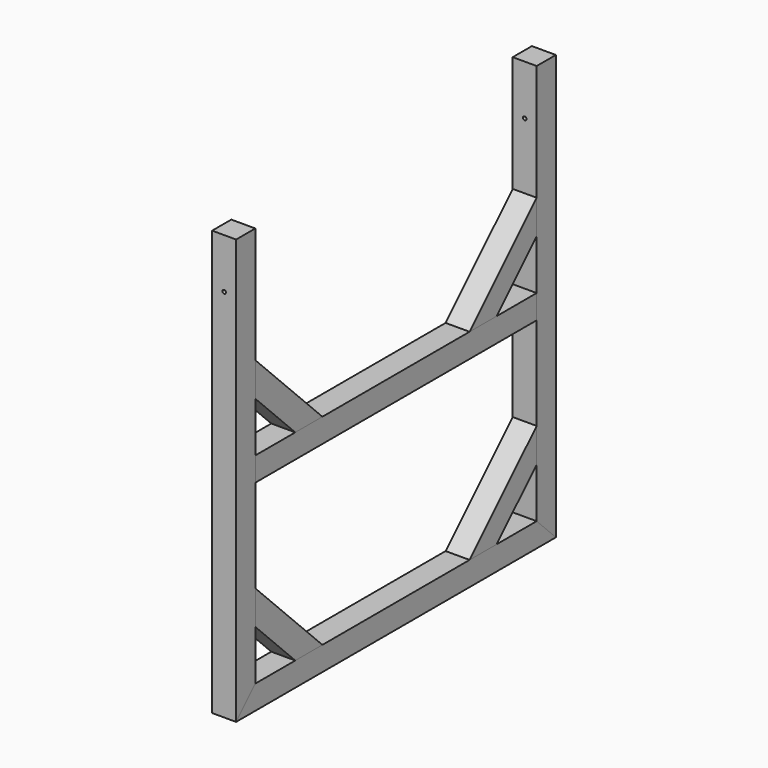
from build123d import *

# Parameters (mm, degrees)
F1_DEPTH  = 48
F2_DEPTH  = 48
F3_DEPTH  = 48
F4_DEPTH  = 48
F5_DEPTH  = 48
F6_DEPTH  = 48
F7_DEPTH  = 48
F8_DEPTH  = 48
F10_DEPTH = 800.001


with BuildPart() as f1:
    # F0 (on Right) → F1 (new body)
    with BuildSketch(Plane.YZ):
        Polygon((-166.943222, -192.34871), (-214.943222, -240.34871), (585.056778, -240.34871), (537.056778, -192.34871), (437.056778, -192.34871), (369.174527, -192.34871), (0.939029, -192.34871), (-66.943222, -192.34871), align=None)
    extrude(amount=F1_DEPTH)


with BuildPart() as f2:
    # F0 (on Right) → F2 (new body)
    with BuildSketch(Plane.YZ):
        Polygon((-166.943222, 609.65129), (-214.943222, 609.65129), (-214.943222, -240.34871), (-166.943222, -192.34871), (-166.943222, -92.34871), (-166.943222, -24.466459), (-166.943222, 161.65129), (-166.943222, 209.65129), (-166.943222, 309.65129), (-166.943222, 377.533541), align=None)
    extrude(amount=F2_DEPTH)


with BuildPart() as f3:
    # F0 (on Right) → F3 (new body)
    with BuildSketch(Plane.YZ):
        Polygon((-166.943222, -24.466459), (-166.943222, -92.34871), (-66.943222, -192.34871), (0.939029, -192.34871), align=None)
    extrude(amount=F3_DEPTH)


with BuildPart() as f4:
    # F0 (on Right) → F4 (new body)
    with BuildSketch(Plane.YZ):
        Polygon((0.939029, 209.65129), (-166.943222, 377.533541), (-166.943222, 309.65129), (-66.943222, 209.65129), align=None)
    extrude(amount=F4_DEPTH)


with BuildPart() as f5:
    # F0 (on Right) → F5 (new body)
    with BuildSketch(Plane.YZ):
        Polygon((537.056778, 377.533541), (369.174527, 209.65129), (437.056778, 209.65129), (537.056778, 309.65129), align=None)
    extrude(amount=F5_DEPTH)


with BuildPart() as f6:
    # F0 (on Right) → F6 (new body)
    with BuildSketch(Plane.YZ):
        Polygon((369.174527, -192.34871), (437.056778, -192.34871), (537.056778, -92.34871), (537.056778, -24.466459), align=None)
    extrude(amount=F6_DEPTH)


with BuildPart() as f7:
    # F0 (on Right) → F7 (new body)
    with BuildSketch(Plane.YZ):
        Polygon((537.056778, -192.34871), (585.056778, -240.34871), (585.056778, 609.65129), (537.056778, 609.65129), (537.056778, 377.533541), (537.056778, 309.65129), (537.056778, 209.65129), (537.056778, 161.65129), (537.056778, -24.466459), (537.056778, -92.34871), align=None)
    extrude(amount=F7_DEPTH)


with BuildPart() as f8:
    # F0 (on Right) → F8 (new body)
    with BuildSketch(Plane.YZ):
        Polygon((369.174527, 209.65129), (0.939029, 209.65129), (-66.943222, 209.65129), (-166.943222, 209.65129), (-166.943222, 161.65129), (537.056778, 161.65129), (537.056778, 209.65129), (437.056778, 209.65129), align=None)
    extrude(amount=F8_DEPTH)


with BuildPart() as f10_tool:
    # F9 (on face) → F10 (new body, through all)
    with BuildSketch(Plane.XZ.offset(214.943222)):
        with BuildLine():
            Line((20.5, 509.65129), (24, 509.65129))
            Line((24, 509.65129), (27.5, 509.65129))
            ThreePointArc((27.5, 509.65129), (24, 513.15129), (20.5, 509.65129))
        make_face()
        with BuildLine():
            Line((27.5, 509.65129), (24, 509.65129))
            Line((24, 509.65129), (20.5, 509.65129))
            ThreePointArc((20.5, 509.65129), (24, 506.15129), (27.5, 509.65129))
        make_face()
    extrude(amount=-F10_DEPTH)


with BuildPart() as f2_1:
    add(f2.part)

    # F10: cut by f10_tool
    add(f10_tool.part, mode=Mode.SUBTRACT)


with BuildPart() as f7_1:
    add(f7.part)

    # F10: cut by f10_tool
    add(f10_tool.part, mode=Mode.SUBTRACT)


solid = Compound([f1.part, f3.part, f4.part, f5.part, f6.part, f8.part, f2_1.part, f7_1.part])
